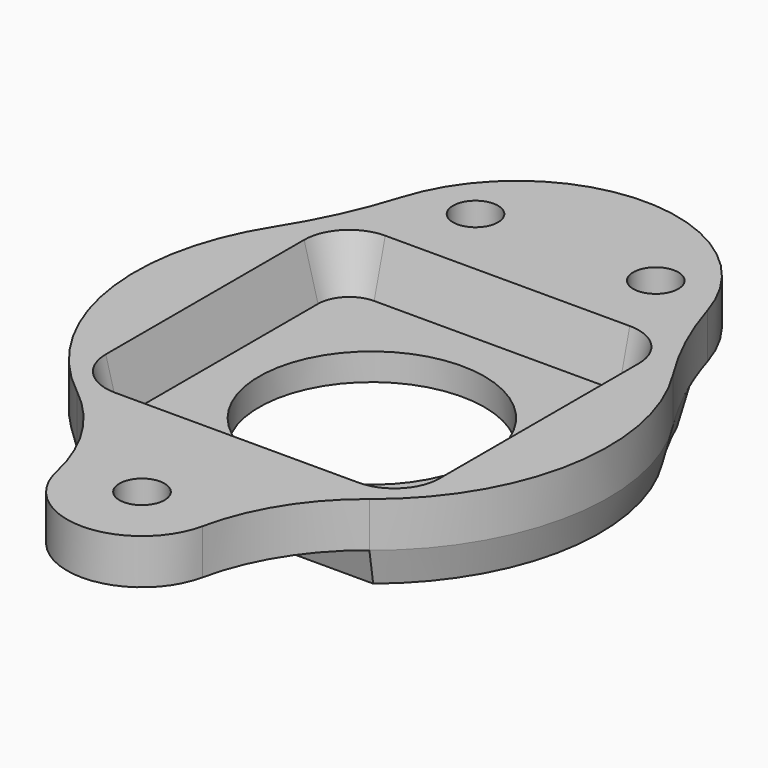
from build123d import *

# Parameters (mm, degrees)
PAD018_DEPTH    = 3
PAD018_TAPER    = 14
SKETCH032_R     = 10
HOLE009_DEPTH   = 25
SKETCH034_R     = 2
PAD022_DEPTH    = 4
POCKET002_DEPTH = 4.6
POCKET002_TAPER = 15


with BuildPart() as part:
    # Sketch031 → Pad018 (new body)
    with BuildSketch(Plane.XY.offset(-4)):
        with BuildLine():
            ThreePointArc((-17.734351, 11.23491), (-16.243686, 13.811706), (-14.965, 16.5))
            Line((-14.965, 16.5), (14.965, 16.5))
            ThreePointArc((14.965, 16.5), (16.243686, 13.811706), (17.734351, 11.23491))
            ThreePointArc((12.98, -16.5), (20.691765, -3.547007), (17.734351, 11.23491))
            Line((-12.98, -16.5), (12.98, -16.5))
            ThreePointArc((-17.734351, 11.23491), (-20.691765, -3.547007), (-12.98, -16.5))
        make_face()
    extrude(amount=-PAD018_DEPTH, taper=PAD018_TAPER)

    # Sketch032 → Hole009 (cut)
    with BuildSketch(Plane.XY.offset(-4)):
        Circle(SKETCH032_R)
    extrude(amount=-HOLE009_DEPTH, mode=Mode.SUBTRACT)

    # Sketch034 → Pad022 (join)
    with BuildSketch(Plane.XY):
        with BuildLine():
            ThreePointArc((13.586881, 20.251823), (0, 30.3), (-13.586881, 20.251823))
            ThreePointArc((-17.728491, 11.256137), (-15.355357, 15.614788), (-13.586881, 20.251823))
            ThreePointArc((-17.728491, 11.256137), (-20.699674, -3.538854), (-12.982142, -16.506483))
            ThreePointArc((-6.502297, -26.893782), (-8.833051, -21.132971), (-12.982142, -16.506483))
            ThreePointArc((-6.502297, -26.893782), (0, -32.15), (6.502297, -26.893782))
            ThreePointArc((12.982142, -16.506483), (8.833051, -21.132971), (6.502297, -26.893782))
            ThreePointArc((12.982142, -16.506483), (20.699674, -3.538854), (17.728491, 11.256137))
            ThreePointArc((13.586881, 20.251823), (15.355357, 15.614788), (17.728491, 11.256137))
        make_face()
        with Locations((0, -25.5)):
            Circle(SKETCH034_R, mode=Mode.SUBTRACT)
        with Locations((-8, 21.5)):
            Circle(SKETCH034_R, mode=Mode.SUBTRACT)
        with Locations((8, 21.5)):
            Circle(SKETCH034_R, mode=Mode.SUBTRACT)
    extrude(amount=-PAD022_DEPTH)

    # Sketch035 → Pocket002 (cut)
    with BuildSketch(Plane.XY):
        with BuildLine():
            Line((-14.85, 11.05), (-14.85, -10.95))
            ThreePointArc((-14.85, -10.95), (-13.649138, -13.849138), (-10.75, -15.05))
            Line((-10.75, -15.05), (10.85, -15.05))
            ThreePointArc((10.85, -15.05), (13.678427, -13.878427), (14.85, -11.05))
            Line((14.85, -11.05), (14.85, 11.05))
            ThreePointArc((14.85, 11.05), (13.678427, 13.878427), (10.85, 15.05))
            Line((10.85, 15.05), (-10.85, 15.05))
            ThreePointArc((-10.85, 15.05), (-13.678427, 13.878427), (-14.85, 11.05))
        make_face()
    extrude(amount=-POCKET002_DEPTH, taper=POCKET002_TAPER, mode=Mode.SUBTRACT)


with BuildPart() as part_1:
    # Body010 placement: moved
    add(part.part.moved(Location((0, 0, -4))))


solid = part_1.part
